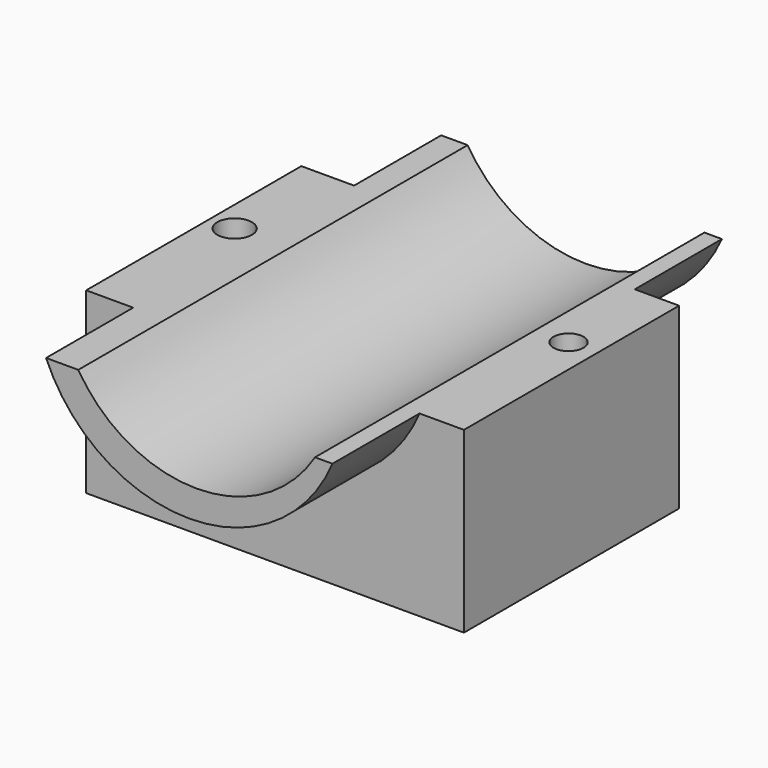
from build123d import *

# Parameters (mm, degrees)
F0_W     = 88.1328396499
F0_H     = 62.7489611506
F1_DEPTH = 41.656
F3_DEPTH = 2514.6
F4_DEPTH = 25.4
F6_DEPTH = 25.4
F7_R     = 4.0308463813
F8_R     = 3.5011356281
F9_DEPTH = 2514.6


with BuildPart() as f1:
    # F0 (on Top) → F1 (new body)
    with BuildSketch(Plane.XY):
        with Locations((4.3660271913, -7.5136311352)):
            Rectangle(F0_W, F0_H)
    extrude(amount=F1_DEPTH)

    # F2 (on face) → F3 (cut)
    with BuildSketch(Plane.XZ.offset(38.8881117105)):
        with BuildLine():
            Line((34.01440382, 41.656), (-21.2209261954, 41.656))
            ThreePointArc((-21.2209261954, 41.656), (6.3967388123, 26.2462017045), (34.01440382, 41.656))
        make_face()
    extrude(amount=-F3_DEPTH, mode=Mode.SUBTRACT)

    # F2 (on face) → F4 (join)
    with BuildSketch(Plane.XZ.offset(38.8881117105)):
        with BuildLine():
            ThreePointArc((34.01440382, 41.656), (6.3967388123, 26.2462017045), (-21.2209261954, 41.656))
            Line((-21.2209261954, 41.656), (-28.734555468, 41.656))
            ThreePointArc((-28.734555468, 41.656), (4.6706357971, 19.5296360838), (38.0758270621, 41.656))
            Line((38.0758270621, 41.656), (34.01440382, 41.656))
        make_face()
    extrude(amount=F4_DEPTH)

    # F5 (on face) → F6 (join)
    with BuildSketch(Plane(origin=(0, 23.8608494401, 0), x_dir=(-1, 0, 0), z_dir=(0, 1, 0))):
        with BuildLine():
            Line((-34.01440382, 41.656), (-38.1010249257, 41.656))
            ThreePointArc((-38.1010249257, 41.656), (-5.3521022201, 20.4356830154), (27.3968204856, 41.656))
            Line((27.3968204856, 41.656), (21.2209261954, 41.656))
            ThreePointArc((21.2209261954, 41.656), (-6.3967388123, 26.2462017045), (-34.01440382, 41.656))
        make_face()
    extrude(amount=F6_DEPTH)

    # F7 (on face) + F8 (on face) → F9 (cut)
    with BuildSketch(Plane.XY.offset(41.656)):
        with Locations((-33.8113345206, -2.9445304535)):
            Circle(F7_R)
    with BuildSketch(Plane.XY.offset(41.656)):
        with Locations((41.7311042547, 0)):
            Circle(F8_R)
    extrude(amount=-F9_DEPTH, mode=Mode.SUBTRACT)


solid = f1.part
